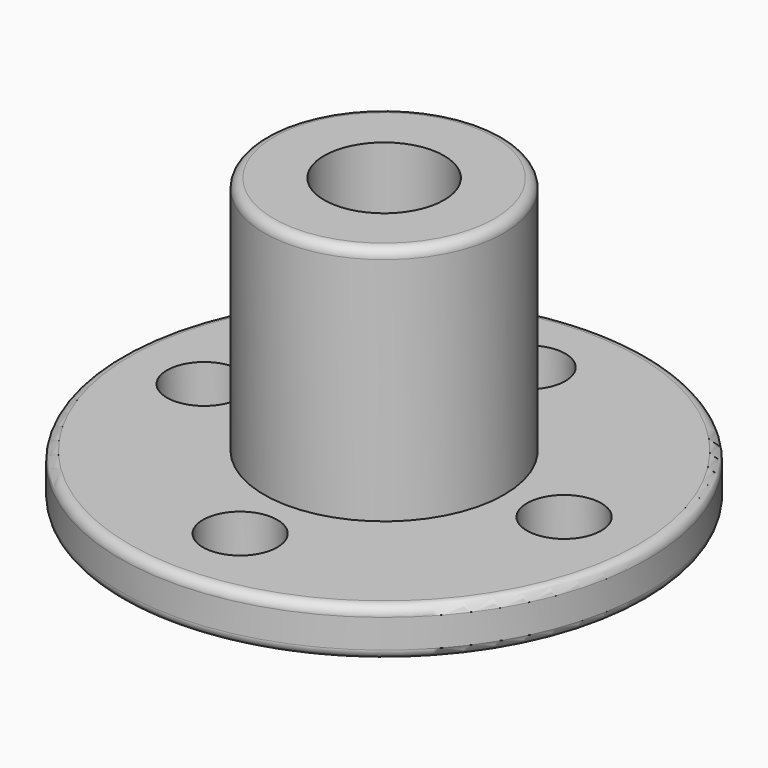
from build123d import *

# Parameters (mm, degrees)
SKETCH_R           = 11
PAD_DEPTH          = 2
SKETCH001_R        = 5
PAD001_DEPTH       = 10
SKETCH002_R        = 2.5
POCKET_DEPTH       = 12.001
SKETCH003_R        = 1.55
POCKET001_DEPTH    = 78.694328
POLARPATTERN_COUNT = 4
FILLET_R           = 0.4


with BuildPart() as part:
    # Sketch → Pad (new body)
    with BuildSketch(Plane.XY):
        Circle(SKETCH_R)
    extrude(amount=PAD_DEPTH)

    # Sketch001 (on Face3 of Pad) → Pad001 (join)
    with BuildSketch(Plane.XY.offset(2)):
        Circle(SKETCH001_R)
    extrude(amount=PAD001_DEPTH)

    # Sketch002 (on Face5 of Pad001) → Pocket (cut, through all)
    with BuildSketch(Plane.XY.offset(12)):
        Circle(SKETCH002_R)
    extrude(amount=-POCKET_DEPTH, mode=Mode.SUBTRACT)

    # Sketch003 (on Face2 of Pocket) → Pocket001 (cut, through all)
    with BuildSketch(Plane(origin=(0, 0, 0), x_dir=(1, 0, 0), z_dir=(0, 0, -1))):
        with Locations((0, 7.5)):
            Circle(SKETCH003_R)
    pocket001 = extrude(amount=-POCKET001_DEPTH, mode=Mode.SUBTRACT)

    # PolarPattern: Pocket001 ×4 about axis
    polarpattern_axis = Axis((0, 0, 0), (0, 0, -1))
    for i in range(1, POLARPATTERN_COUNT):
        add(pocket001.rotate(polarpattern_axis, i * 360 / POLARPATTERN_COUNT), mode=Mode.SUBTRACT)

    # Fillet
    fillet_edges = [part.edges().sort_by_distance(p)[0] for p in [
        (-5, 0, 12),
        (-7.5, -1.55, 1),
        (-11, 0, 2),
        (-11, 0, 0),
        (-7.5, 1.55, 0),
    ]]
    fillet(fillet_edges, radius=FILLET_R)


solid = part.part
